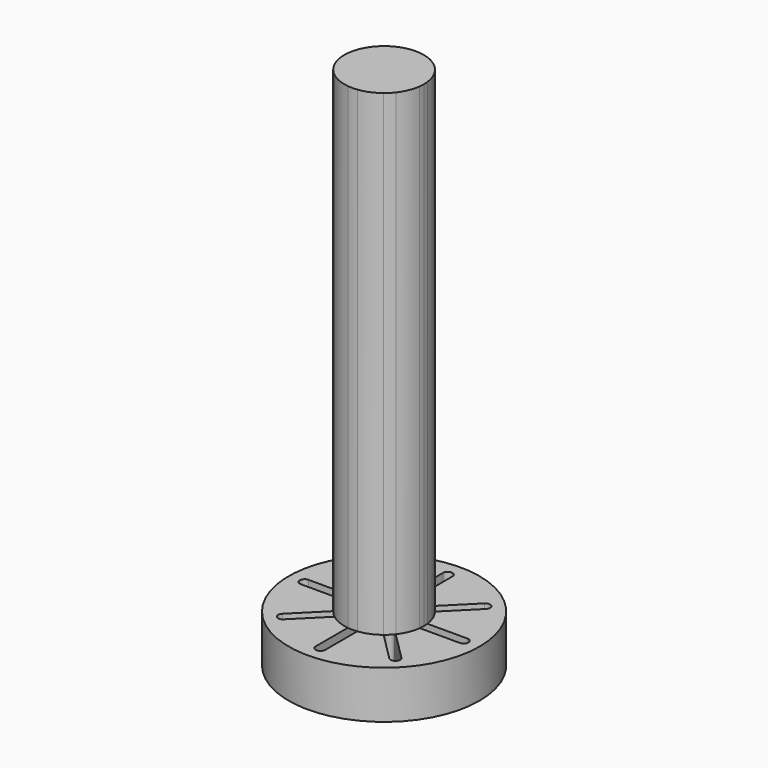
from build123d import *

# Parameters (mm, degrees)
F0_R     = 30
F1_DEPTH = 15
F3_DEPTH = 150


with BuildPart() as f1:
    # F0 (on Top) → F1 (new body)
    with BuildSketch(Plane.XY):
        Circle(F0_R)
        with BuildLine():
            ThreePointArc((-16.6170093579, -18.7383297014), (-18.7383297014, -18.7383297014), (-18.7383297014, -16.6170093579))
            Line((-18.7383297014, -16.6170093579), (-8.1317279836, -6.0104076401))
            ThreePointArc((-8.1317279836, -6.0104076401), (-6.0104076401, -6.0104076401), (-6.0104076401, -8.1317279836))
            Line((-6.0104076401, -8.1317279836), (-16.6170093579, -18.7383297014))
        make_face(mode=Mode.SUBTRACT)
        with BuildLine():
            ThreePointArc((1.5, -25), (0, -26.5), (-1.5, -25))
            Line((-1.5, -25), (-1.5, -10))
            ThreePointArc((-1.5, -10), (0, -8.5), (1.5, -10))
            Line((1.5, -10), (1.5, -25))
        make_face(mode=Mode.SUBTRACT)
        with BuildLine():
            ThreePointArc((18.7383297014, -16.6170093579), (18.7383297014, -18.7383297014), (16.6170093579, -18.7383297014))
            Line((16.6170093579, -18.7383297014), (6.0104076401, -8.1317279836))
            ThreePointArc((6.0104076401, -8.1317279836), (6.0104076401, -6.0104076401), (8.1317279836, -6.0104076401))
            Line((8.1317279836, -6.0104076401), (18.7383297014, -16.6170093579))
        make_face(mode=Mode.SUBTRACT)
        with BuildLine():
            ThreePointArc((-25, -1.5), (-26.5, 0), (-25, 1.5))
            Line((-25, 1.5), (-10, 1.5))
            ThreePointArc((-10, 1.5), (-8.5, 0), (-10, -1.5))
            Line((-10, -1.5), (-25, -1.5))
        make_face(mode=Mode.SUBTRACT)
        with BuildLine():
            ThreePointArc((-18.7383297014, 16.6170093579), (-18.7383297014, 18.7383297014), (-16.6170093579, 18.7383297014))
            Line((-16.6170093579, 18.7383297014), (-6.0104076401, 8.1317279836))
            ThreePointArc((-6.0104076401, 8.1317279836), (-6.0104076401, 6.0104076401), (-8.1317279836, 6.0104076401))
            Line((-8.1317279836, 6.0104076401), (-18.7383297014, 16.6170093579))
        make_face(mode=Mode.SUBTRACT)
        with BuildLine():
            ThreePointArc((16.6170093579, 18.7383297014), (18.7383297014, 18.7383297014), (18.7383297014, 16.6170093579))
            Line((18.7383297014, 16.6170093579), (8.1317279836, 6.0104076401))
            ThreePointArc((8.1317279836, 6.0104076401), (6.0104076401, 6.0104076401), (6.0104076401, 8.1317279836))
            Line((6.0104076401, 8.1317279836), (16.6170093579, 18.7383297014))
        make_face(mode=Mode.SUBTRACT)
        with BuildLine():
            ThreePointArc((25, 1.5), (26.5, 0), (25, -1.5))
            Line((25, -1.5), (10, -1.5))
            ThreePointArc((10, -1.5), (8.5, 0), (10, 1.5))
            Line((10, 1.5), (25, 1.5))
        make_face(mode=Mode.SUBTRACT)
        with BuildLine():
            ThreePointArc((-1.5, 25), (0, 26.5), (1.5, 25))
            Line((1.5, 25), (1.5, 10))
            ThreePointArc((1.5, 10), (0, 8.5), (-1.5, 10))
            Line((-1.5, 10), (-1.5, 25))
        make_face(mode=Mode.SUBTRACT)
    extrude(amount=F1_DEPTH)

    # F2 (on face) → F3 (join)
    with BuildSketch(Plane.XY.offset(15)):
        with BuildLine():
            Line((10, 1.5), (12.409673646, 1.5))
            ThreePointArc((12.409673646, 1.5), (11.5484941564, 4.7835429046), (9.8356245592, 7.7143042156))
            Line((9.8356245592, 7.7143042156), (8.1317279836, 6.0104076401))
            ThreePointArc((8.1317279836, 6.0104076401), (6.0104076401, 6.0104076401), (6.0104076401, 8.1317279836))
            Line((6.0104076401, 8.1317279836), (7.7143042156, 9.8356245592))
            ThreePointArc((7.7143042156, 9.8356245592), (4.7835429046, 11.5484941564), (1.5, 12.409673646))
            Line((1.5, 12.409673646), (1.5, 10))
            ThreePointArc((1.5, 10), (0, 8.5), (-1.5, 10))
            Line((-1.5, 10), (-1.5, 12.409673646))
            ThreePointArc((-1.5, 12.409673646), (-4.7835429046, 11.5484941564), (-7.7143042156, 9.8356245592))
            Line((-7.7143042156, 9.8356245592), (-6.0104076401, 8.1317279836))
            ThreePointArc((-6.0104076401, 8.1317279836), (-6.0104076401, 6.0104076401), (-8.1317279836, 6.0104076401))
            Line((-8.1317279836, 6.0104076401), (-9.8356245592, 7.7143042156))
            ThreePointArc((-9.8356245592, 7.7143042156), (-11.5484941564, 4.7835429046), (-12.409673646, 1.5))
            Line((-12.409673646, 1.5), (-10, 1.5))
            ThreePointArc((-10, 1.5), (-8.5, 0), (-10, -1.5))
            Line((-10, -1.5), (-12.409673646, -1.5))
            ThreePointArc((-12.409673646, -1.5), (-11.5484941564, -4.7835429046), (-9.8356245592, -7.7143042156))
            Line((-9.8356245592, -7.7143042156), (-8.1317279836, -6.0104076401))
            ThreePointArc((-8.1317279836, -6.0104076401), (-6.0104076401, -6.0104076401), (-6.0104076401, -8.1317279836))
            Line((-6.0104076401, -8.1317279836), (-7.7143042156, -9.8356245592))
            ThreePointArc((-7.7143042156, -9.8356245592), (-4.7835429046, -11.5484941564), (-1.5, -12.409673646))
            Line((-1.5, -12.409673646), (-1.5, -10))
            ThreePointArc((-1.5, -10), (0, -8.5), (1.5, -10))
            Line((1.5, -10), (1.5, -12.409673646))
            ThreePointArc((1.5, -12.409673646), (4.7835429046, -11.5484941564), (7.7143042156, -9.8356245592))
            Line((7.7143042156, -9.8356245592), (6.0104076401, -8.1317279836))
            ThreePointArc((6.0104076401, -8.1317279836), (6.0104076401, -6.0104076401), (8.1317279836, -6.0104076401))
            Line((8.1317279836, -6.0104076401), (9.8356245592, -7.7143042156))
            ThreePointArc((9.8356245592, -7.7143042156), (11.5484941564, -4.7835429046), (12.409673646, -1.5))
            Line((12.409673646, -1.5), (10, -1.5))
            ThreePointArc((10, -1.5), (8.5, 0), (10, 1.5))
        make_face()
        with BuildLine():
            Line((-10, 1.5), (-12.409673646, 1.5))
            ThreePointArc((-12.409673646, 1.5), (-12.5, 0), (-12.409673646, -1.5))
            Line((-12.409673646, -1.5), (-10, -1.5))
            ThreePointArc((-10, -1.5), (-8.5, 0), (-10, 1.5))
        make_face()
        with BuildLine():
            Line((-6.0104076401, 8.1317279836), (-7.7143042156, 9.8356245592))
            ThreePointArc((-7.7143042156, 9.8356245592), (-8.8388347648, 8.8388347648), (-9.8356245592, 7.7143042156))
            Line((-9.8356245592, 7.7143042156), (-8.1317279836, 6.0104076401))
            ThreePointArc((-8.1317279836, 6.0104076401), (-6.0104076401, 6.0104076401), (-6.0104076401, 8.1317279836))
        make_face()
        with BuildLine():
            Line((1.5, 10), (1.5, 12.409673646))
            ThreePointArc((1.5, 12.409673646), (0, 12.5), (-1.5, 12.409673646))
            Line((-1.5, 12.409673646), (-1.5, 10))
            ThreePointArc((-1.5, 10), (0, 8.5), (1.5, 10))
        make_face()
        with BuildLine():
            Line((8.1317279836, 6.0104076401), (9.8356245592, 7.7143042156))
            ThreePointArc((9.8356245592, 7.7143042156), (8.8388347648, 8.8388347648), (7.7143042156, 9.8356245592))
            Line((7.7143042156, 9.8356245592), (6.0104076401, 8.1317279836))
            ThreePointArc((6.0104076401, 8.1317279836), (6.0104076401, 6.0104076401), (8.1317279836, 6.0104076401))
        make_face()
        with BuildLine():
            ThreePointArc((12.409673646, -1.5), (12.4773979774, -0.7513585779), (12.5, 0))
            ThreePointArc((12.5, 0), (12.4773979774, 0.7513585779), (12.409673646, 1.5))
            Line((12.409673646, 1.5), (10, 1.5))
            ThreePointArc((10, 1.5), (8.5, 0), (10, -1.5))
            Line((10, -1.5), (12.409673646, -1.5))
        make_face()
        with BuildLine():
            ThreePointArc((7.7143042156, -9.8356245592), (8.8388347648, -8.8388347648), (9.8356245592, -7.7143042156))
            Line((9.8356245592, -7.7143042156), (8.1317279836, -6.0104076401))
            ThreePointArc((8.1317279836, -6.0104076401), (6.0104076401, -6.0104076401), (6.0104076401, -8.1317279836))
            Line((6.0104076401, -8.1317279836), (7.7143042156, -9.8356245592))
        make_face()
        with BuildLine():
            ThreePointArc((-1.5, -12.409673646), (0, -12.5), (1.5, -12.409673646))
            Line((1.5, -12.409673646), (1.5, -10))
            ThreePointArc((1.5, -10), (0, -8.5), (-1.5, -10))
            Line((-1.5, -10), (-1.5, -12.409673646))
        make_face()
        with BuildLine():
            ThreePointArc((-9.8356245592, -7.7143042156), (-8.8388347648, -8.8388347648), (-7.7143042156, -9.8356245592))
            Line((-7.7143042156, -9.8356245592), (-6.0104076401, -8.1317279836))
            ThreePointArc((-6.0104076401, -8.1317279836), (-6.0104076401, -6.0104076401), (-8.1317279836, -6.0104076401))
            Line((-8.1317279836, -6.0104076401), (-9.8356245592, -7.7143042156))
        make_face()
    extrude(amount=F3_DEPTH)


solid = f1.part
